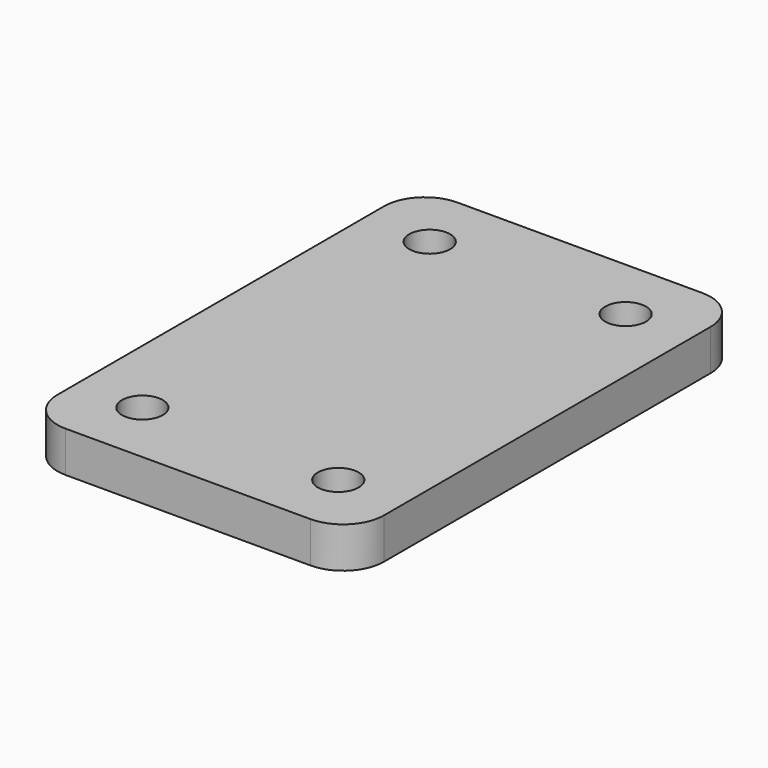
from build123d import *

# Parameters (mm, degrees)
SKETCH011_W     = 40
SKETCH011_H     = 60
PAD003_DEPTH    = 5
SKETCH017_R     = 2.5
POCKET009_DEPTH = 5
FILLET004_R     = 5


with BuildPart() as part:
    # Sketch011 → Pad003 (new body)
    with BuildSketch(Plane.XY):
        Rectangle(SKETCH011_W, SKETCH011_H)
    extrude(amount=PAD003_DEPTH)

    # Sketch017 (on Face6 of Pad003) → Pocket009 (cut)
    with BuildSketch(Plane.XY.offset(5)):
        with Locations((-12, 22)):
            Circle(SKETCH017_R)
        with Locations((12, 22)):
            Circle(SKETCH017_R)
    pocket009 = extrude(amount=-POCKET009_DEPTH, mode=Mode.SUBTRACT)

    # Mirrored001: Pocket009 across XZ
    add(pocket009.mirror(Plane.XZ), mode=Mode.SUBTRACT)

    # Fillet004
    fillet004_edges = [part.edges().sort_by_distance(p)[0] for p in [
        (20, 30, 2.5),
        (-20, 30, 2.5),
        (-20, -30, 2.5),
        (20, -30, 2.5),
    ]]
    fillet(fillet004_edges, radius=FILLET004_R)


with BuildPart() as part_1:
    # Body003 placement: moved
    add(part.part.moved(Location((0, 0, 5))))


solid = part_1.part
